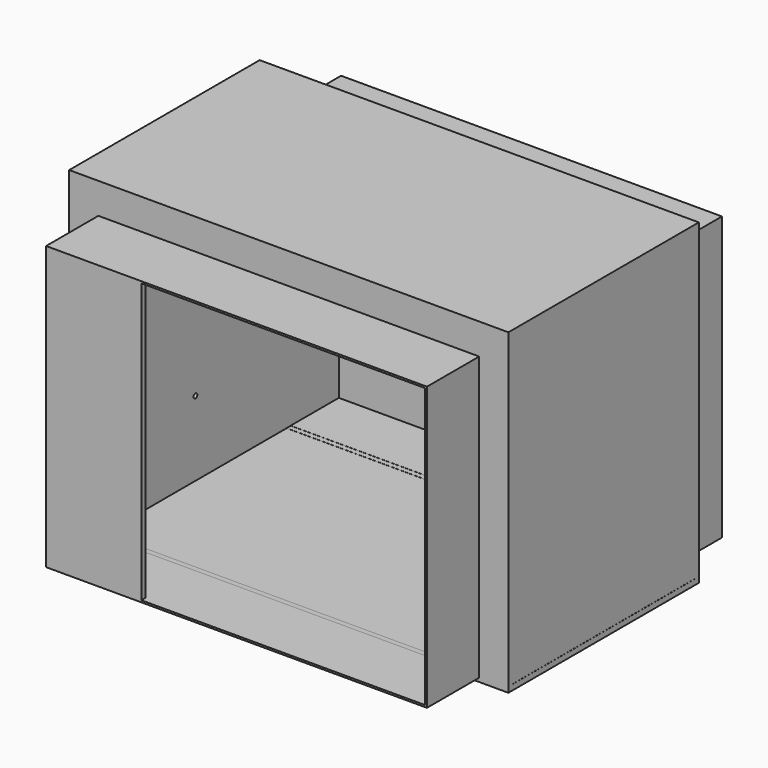
from build123d import *

# Parameters (mm, degrees)
F0_W      = 4705
F0_H      = 3400
F0_W_2    = 4040
F0_H_2    = 3280
F1_DEPTH  = 2550
F2_W      = 65
F2_H      = 290
F3_DEPTH  = 4040
F4_R      = 25
F5_DEPTH  = 332.501
F6_W      = 242.5
F6_H      = 2440
F7_DEPTH  = 1
F8_W      = 4080
F8_H      = 3029
F8_W_2    = 4040
F8_H_2    = 2989
F9_DEPTH  = 700
F10_W     = 4080
F10_H     = 3029
F10_W_2   = 4040
F10_H_2   = 2989
F11_DEPTH = 700
F12_W     = 1000
F12_H     = 55
F13_DEPTH = 2989
F14_W     = 1000
F14_H     = 55
F15_DEPTH = 2989
F16_W     = 4040
F16_H     = 2440
F17_DEPTH = 1


with BuildPart() as f1:
    # F0 (on Front) → F1 (new body)
    with BuildSketch(Plane.XZ):
        Rectangle(F0_W, F0_H)
        Rectangle(F0_W_2, F0_H_2, mode=Mode.SUBTRACT)
    extrude(amount=F1_DEPTH)

    # F2 (on face) → F3 (join, through all)
    with BuildSketch(Plane.YZ.offset(-2020)):
        with Locations((-2517.5, 1495)):
            Rectangle(F2_W, F2_H)
        with Locations((-32.5, 1495)):
            Rectangle(F2_W, F2_H)
    extrude(amount=F3_DEPTH)

    # F4 (on face) → F5 (cut, through all)
    with BuildSketch(Plane.YZ.offset(-2020)):
        with Locations((-1275, -840)):
            Circle(F4_R)
    extrude(amount=-F5_DEPTH, mode=Mode.SUBTRACT)

    # F6 (on face) → F7 (cut)
    with BuildSketch(Plane.XY.offset(-1640)):
        with Locations((2231.25, -1275)):
            Rectangle(F6_W, F6_H)
    extrude(amount=-F7_DEPTH, mode=Mode.SUBTRACT)

    # F8 (on face) → F9 (join)
    with BuildSketch(Plane(origin=(0, 0, 0), x_dir=(-1, 0, 0), z_dir=(0, 1, 0))):
        with Locations((0, -144.5)):
            Rectangle(F8_W, F8_H)
        with Locations((0, -144.5)):
            Rectangle(F8_W_2, F8_H_2, mode=Mode.SUBTRACT)
    extrude(amount=F9_DEPTH)

    # F10 (on face) → F11 (join)
    with BuildSketch(Plane.XZ.offset(2550)):
        with Locations((0, -144.5)):
            Rectangle(F10_W, F10_H)
        with Locations((0, -144.5)):
            Rectangle(F10_W_2, F10_H_2, mode=Mode.SUBTRACT)
    extrude(amount=F11_DEPTH)

    # F12 (on face) → F13 (join, through all)
    with BuildSketch(Plane.XY.offset(-1639)):
        with Locations((-1520, 672.5)):
            Rectangle(F12_W, F12_H)
    extrude(amount=F13_DEPTH)

    # F14 (on face) → F15 (join, through all)
    with BuildSketch(Plane.XY.offset(-1639)):
        with Locations((-1520, -3222.5)):
            Rectangle(F14_W, F14_H)
    extrude(amount=F15_DEPTH)

    # F16 (on face) → F17 (cut)
    with BuildSketch(Plane.XY.offset(-1640)):
        with Locations((0, -1275)):
            Rectangle(F16_W, F16_H)
    extrude(amount=-F17_DEPTH, mode=Mode.SUBTRACT)


solid = f1.part
